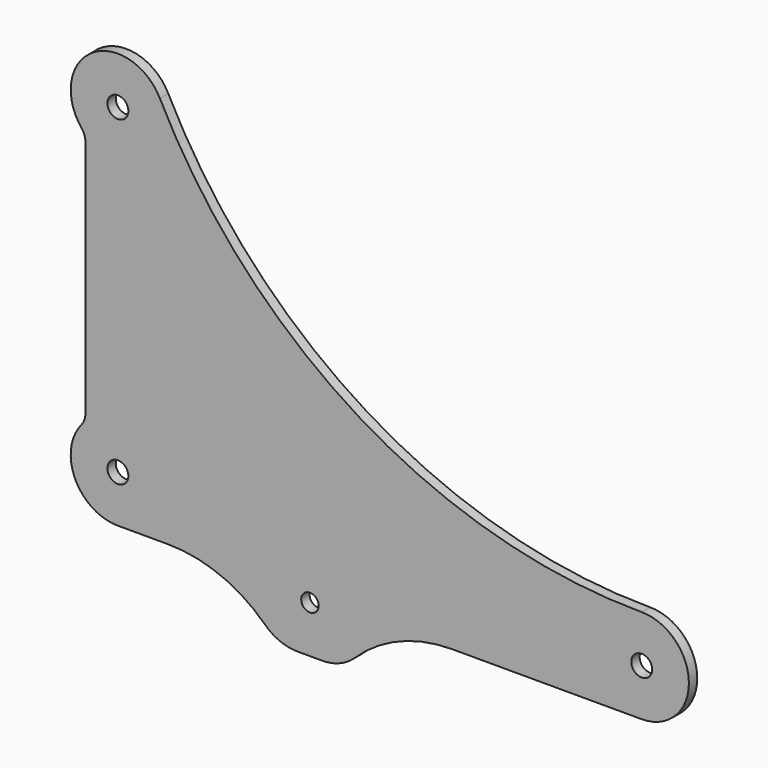
from build123d import *

# Parameters (mm, degrees)
F0_R     = 3
F0_R_2   = 2.5
F1_DEPTH = 3


with BuildPart() as f1:
    # F0 (on Front) → F1 (new body)
    with BuildSketch(Plane.XZ):
        with BuildLine():
            ThreePointArc((-9.3, 11.737121), (-9.592329, 10.052532), (-10.435135, 8.564926))
            ThreePointArc((-10.435135, 8.564926), (-12.204026, -5.771633), (0, -13.5))
            Line((0, -13.5), (14.351649, -13.5))
            ThreePointArc((14.351649, -13.5), (29.328266, -16.409557), (42.126117, -24.714953))
            ThreePointArc((42.126117, -24.714953), (46.445392, -27.518024), (51.5, -28.5))
            Line((51.5, -28.5), (58.5, -28.5))
            ThreePointArc((58.5, -28.5), (63.554608, -27.518024), (67.873883, -24.714953))
            ThreePointArc((67.873883, -24.714953), (80.671734, -16.409557), (95.648351, -13.5))
            Line((95.648351, -13.5), (150, -13.5))
            ThreePointArc((150, -13.5), (163.5, 0), (150, 13.5))
            ThreePointArc((150, 13.5), (69.075233, 36.340053), (12.033329, 98.119558))
            ThreePointArc((12.033329, 98.119558), (-7.385599, 103.300572), (-10.435135, 83.435074))
            ThreePointArc((-10.435135, 83.435074), (-9.592329, 81.947468), (-9.3, 80.262879))
            Line((-9.3, 80.262879), (-9.3, 11.737121))
        make_face()
        Circle(F0_R, mode=Mode.SUBTRACT)
        with Locations((55, -15)):
            Circle(F0_R_2, mode=Mode.SUBTRACT)
        with Locations((150, 0)):
            Circle(F0_R, mode=Mode.SUBTRACT)
        with Locations((0, 92)):
            Circle(F0_R, mode=Mode.SUBTRACT)
    extrude(amount=F1_DEPTH)


solid = f1.part
